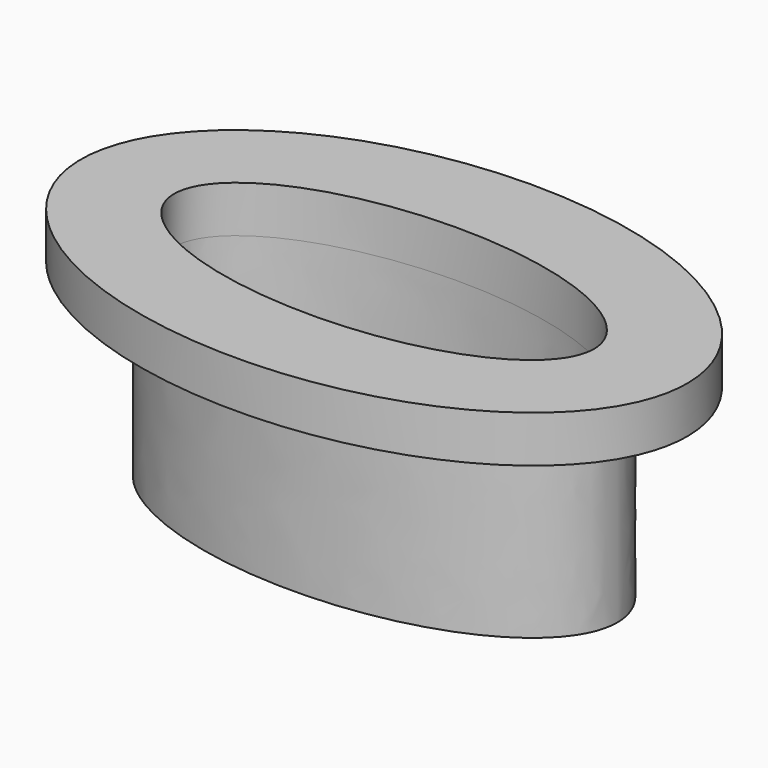
from build123d import *

# Parameters (mm, degrees)
F1_DEPTH = 1
F2_DEPTH = 4
F3_DEPTH = 2


with BuildPart() as f1:
    # F0 (on Top) → F1 (new body)
    with BuildSketch(Plane.XY):
        with BuildLine():
            add(Edge.make_bspline(
                [(6.5, 0), (6.5, 6.928203), (-3.25, 3.464102), (-13, 0), (-3.25, -3.464102), (6.5, -6.928203), (6.5, 0)],
                knots=[0, 0, 0, 2.094395, 2.094395, 4.18879, 4.18879, 6.283185, 6.283185, 6.283185], degree=2, weights=[1, 0.5, 1, 0.5, 1, 0.5, 1]))
        make_face()
        with BuildLine():
            add(Edge.make_bspline(
                [(5, 0), (5, 4.330127), (-2.5, 2.165064), (-10, 0), (-2.5, -2.165064), (5, -4.330127), (5, 0)],
                knots=[0, 0, 0, 2.094395, 2.094395, 4.18879, 4.18879, 6.283185, 6.283185, 6.283185], degree=2, weights=[1, 0.5, 1, 0.5, 1, 0.5, 1]))
        make_face(mode=Mode.SUBTRACT)
        with BuildLine():
            add(Edge.make_bspline(
                [(5, 0), (5, 4.330127), (-2.5, 2.165064), (-10, 0), (-2.5, -2.165064), (5, -4.330127), (5, 0)],
                knots=[0, 0, 0, 2.094395, 2.094395, 4.18879, 4.18879, 6.283185, 6.283185, 6.283185], degree=2, weights=[1, 0.5, 1, 0.5, 1, 0.5, 1]))
        make_face()
        with BuildLine():
            add(Edge.make_bspline(
                [(4.5, 0), (4.5, 3.464102), (-2.25, 1.732051), (-9, 0), (-2.25, -1.732051), (4.5, -3.464102), (4.5, 0)],
                knots=[0, 0, 0, 2.094395, 2.094395, 4.18879, 4.18879, 6.283185, 6.283185, 6.283185], degree=2, weights=[1, 0.5, 1, 0.5, 1, 0.5, 1]))
        make_face(mode=Mode.SUBTRACT)
    extrude(amount=F1_DEPTH)

    # F0 (on Top) → F2 (join)
    with BuildSketch(Plane.XY):
        with BuildLine():
            add(Edge.make_bspline(
                [(5, 0), (5, 4.330127), (-2.5, 2.165064), (-10, 0), (-2.5, -2.165064), (5, -4.330127), (5, 0)],
                knots=[0, 0, 0, 2.094395, 2.094395, 4.18879, 4.18879, 6.283185, 6.283185, 6.283185], degree=2, weights=[1, 0.5, 1, 0.5, 1, 0.5, 1]))
        make_face()
        with BuildLine():
            add(Edge.make_bspline(
                [(4.5, 0), (4.5, 3.464102), (-2.25, 1.732051), (-9, 0), (-2.25, -1.732051), (4.5, -3.464102), (4.5, 0)],
                knots=[0, 0, 0, 2.094395, 2.094395, 4.18879, 4.18879, 6.283185, 6.283185, 6.283185], degree=2, weights=[1, 0.5, 1, 0.5, 1, 0.5, 1]))
        make_face(mode=Mode.SUBTRACT)
        with BuildLine():
            add(Edge.make_bspline(
                [(4.5, 0), (4.5, 3.464102), (-2.25, 1.732051), (-9, 0), (-2.25, -1.732051), (4.5, -3.464102), (4.5, 0)],
                knots=[0, 0, 0, 2.094395, 2.094395, 4.18879, 4.18879, 6.283185, 6.283185, 6.283185], degree=2, weights=[1, 0.5, 1, 0.5, 1, 0.5, 1]))
        make_face()
    extrude(amount=-F2_DEPTH)

    # F0 (on Top) → F3 (cut)
    with BuildSketch(Plane.XY):
        with BuildLine():
            add(Edge.make_bspline(
                [(4.5, 0), (4.5, 3.464102), (-2.25, 1.732051), (-9, 0), (-2.25, -1.732051), (4.5, -3.464102), (4.5, 0)],
                knots=[0, 0, 0, 2.094395, 2.094395, 4.18879, 4.18879, 6.283185, 6.283185, 6.283185], degree=2, weights=[1, 0.5, 1, 0.5, 1, 0.5, 1]))
        make_face()
    extrude(amount=-F3_DEPTH, mode=Mode.SUBTRACT)


solid = f1.part
